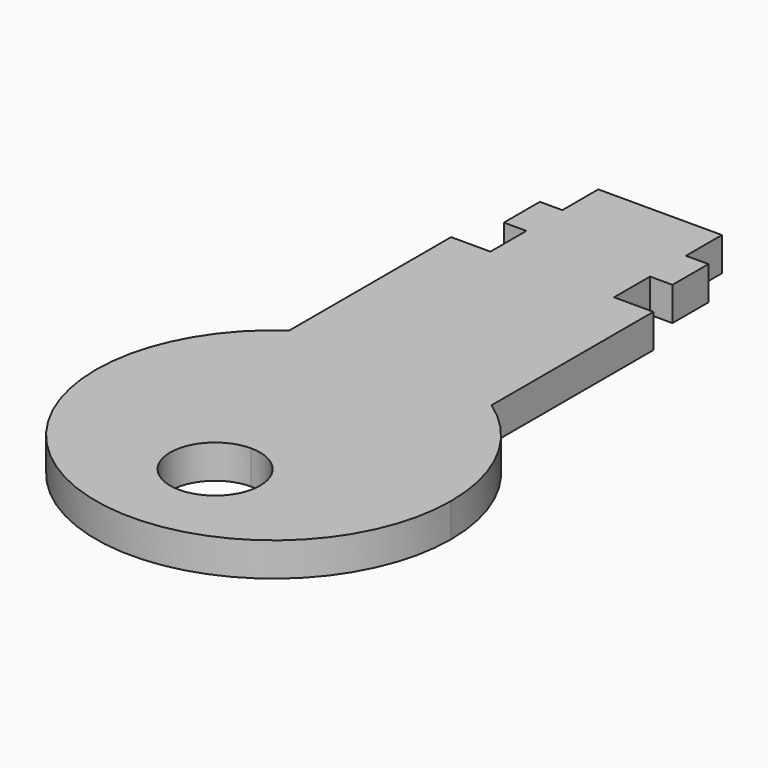
from build123d import *

# Parameters (mm, degrees)
F1_DEPTH = 1.5


with BuildPart() as f1:
    # F0 (on Top) → F1 (new body)
    with BuildSketch(Plane.XY):
        with BuildLine():
            Line((4.5, -4.5), (4.5, 4.5))
            Line((4.5, 4.5), (2.75, 4.5))
            Line((2.75, 4.5), (2.75, 6.5))
            Line((2.75, 6.5), (3.75, 6.5))
            Line((3.75, 6.5), (3.75, 8.5))
            Line((3.75, 8.5), (2.75, 8.5))
            Line((2.75, 8.5), (2.75, 10.5))
            Line((2.75, 10.5), (-2.75, 10.5))
            Line((-2.75, 10.5), (-2.75, 8.5))
            Line((-2.75, 8.5), (-3.75, 8.5))
            Line((-3.75, 8.5), (-3.75, 6.5))
            Line((-3.75, 6.5), (-2.75, 6.5))
            Line((-2.75, 6.5), (-2.75, 4.5))
            Line((-2.75, 4.5), (-4.5, 4.5))
            Line((-4.5, 4.5), (-4.5, -4.5))
            ThreePointArc((-4.5, -4.5), (-7.0027, -7.330915), (-7.905694, -11))
            ThreePointArc((-7.905694, -11), (0, -18.905694), (7.905694, -11))
            ThreePointArc((7.905694, -11), (7.0027, -7.330915), (4.5, -4.5))
        make_face()
        with BuildLine():
            ThreePointArc((0, -16.25), (-2, -14.25), (0, -12.25))
            ThreePointArc((0, -12.25), (1.414214, -12.835786), (2, -14.25))
            ThreePointArc((2, -14.25), (1.414214, -15.664214), (0, -16.25))
        make_face(mode=Mode.SUBTRACT)
    extrude(amount=F1_DEPTH)


solid = f1.part
